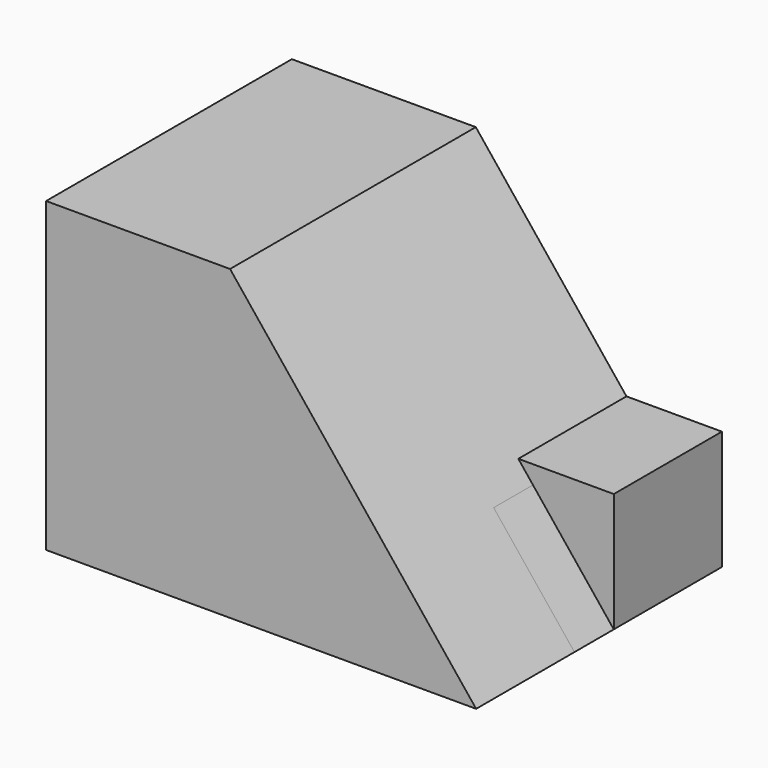
from build123d import *

# Parameters (mm, degrees)
F0_W     = 88.9
F0_H     = 63.5
F1_DEPTH = 63.5
F3_DEPTH = 63.501
F4_W     = 38.1
F4_H     = 26.7130212291
F5_DEPTH = 25.4
F6_W     = 25.4
F6_H     = 38.1
F7_DEPTH = 40.132
F9_DEPTH = 27.94


with BuildPart() as f1:
    # F0 (on Top) → F1 (new body)
    with BuildSketch(Plane.XY):
        with Locations((-1.7257053405, -12.9154672953)):
            Rectangle(F0_W, F0_H)
    extrude(amount=F1_DEPTH)

    # F2 (on face) → F3 (cut, through all)
    with BuildSketch(Plane.XZ.offset(44.6654672953)):
        Polygon((42.7242946595, 63.5), (-8.1487037241, 63.5), (42.7242946595, 0), align=None)
    extrude(amount=-F3_DEPTH, mode=Mode.SUBTRACT)

    # F4 (on face) → F5 (join)
    with BuildSketch(Plane(origin=(26.0221932234, 0, 20.8476691936), x_dir=(0, 1, 0), z_dir=(0.7804309746, 0, 0.6252419482))):
        with Locations((-0.2154672953, -13.3565106146)):
            Rectangle(F4_W, F4_H)
    extrude(amount=F5_DEPTH)

    # F6 (on face) → F7 (cut)
    with BuildSketch(Plane(origin=(0, 0, 0), x_dir=(0.7804309746, 0, 0.6252419482), z_dir=(-0.6252419482, 0, 0.7804309746))):
        with Locations((46.0433629222, -0.2154672953)):
            Rectangle(F6_W, F6_H)
    extrude(amount=-F7_DEPTH, mode=Mode.SUBTRACT)

    # F8 (on face) → F9 (join)
    with BuildSketch(Plane(origin=(0, 18.8345327047, 0), x_dir=(-1, 0, 0), z_dir=(0, 1, 0))):
        Polygon((-42.7242946595, 0), (-22.9904382266, 24.6319250545), (-42.7242946595, 24.6319250545), align=None)
    extrude(amount=-F9_DEPTH)


solid = f1.part
